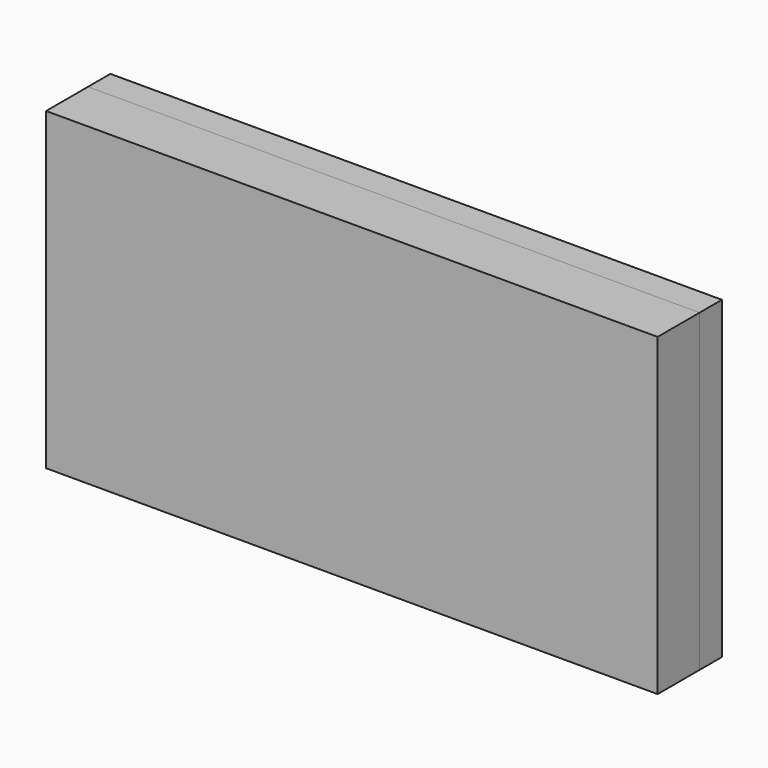
from build123d import *

# Parameters (mm, degrees)
SKETCH001_R                          = 2.5
EXTRUDE_DEPTH                        = 15
EXTRUDE_ONTO_SKETCH003_ROLL_ANGLE    = 90
SKETCH002_R                          = 4.5
EXTRUDE001_DEPTH                     = 30
EXTRUDE001_ONTO_SKETCH004_ROLL_ANGLE = 90
SKETCH005_R                          = 10
SKETCH007_AS_DRAWN_W                 = 175
SKETCH007_AS_DRAWN_H                 = 90
EXTRUDE002_DEPTH                     = 15
EXTRUDE002_ONTO_SKETCH007_ROLL_ANGLE = 90
SKETCH008_AS_DRAWN_W                 = 175
SKETCH008_AS_DRAWN_H                 = 90
EXTRUDE003_DEPTH                     = 8
EXTRUDE003_ONTO_SKETCH008_ROLL_ANGLE = 90


with BuildPart() as sweep_body:
    # Sweep: sweep along a path in Sketch
    with BuildLine(Plane.XZ) as sweep_path:
        ThreePointArc((0, 0), (77.031518, 16.556214), (140.457946, 63.300744))
    # Sketch001 → Sweep (sweep)
    with BuildSketch(Plane(origin=(0, 0, 0), x_dir=(0, -1, 0), z_dir=(-1, 0, 0))):
        Circle(SKETCH001_R)
    sweep(path=sweep_path.line)


with BuildPart() as sweep_body_1:
    # Sweep placement: moved
    add(sweep_body.part.moved(Location((0, 0, -6))))


with BuildPart() as extrude_body:
    # Sketch003 as drawn → Extrude (new)
    with BuildSketch(Plane.XY):
        Polygon((-1.083342, -7.49699), (13.908532, -7.003301), (12.838542, 7.958487), (-1, 7.502778), align=None)
        Polygon((41.700168, -2.988655), (66.671438, 4.25295), (61.542375, 18.348791), (38.492156, 11.664285), align=None)
        Polygon((92.299066, 15.729757), (114.329996, 29.537121), (105.53454, 41.68784), (85.198459, 28.942682), align=None)
        Polygon((125.963239, 58.925722), (136.461263, 48.211643), (146.763604, 59.114017), (135.473017, 68.989372), align=None)
    extrude(amount=-EXTRUDE_DEPTH)


with BuildPart() as extrude_body_1:
    # Extrude onto Sketch003 roll: moved
    add(extrude_body.part.rotate(Axis((0, 0, 0), (1, 0, 0)), EXTRUDE_ONTO_SKETCH003_ROLL_ANGLE))


with BuildPart() as extrude_body_2:
    # Extrude onto Sketch003 placement: moved
    add(extrude_body_1.part.moved(Location((0, -7, 0))))


with BuildPart() as internal:
    # Sweep001: sweep along a path in Sketch
    with BuildLine(Plane.XZ) as sweep001_path:
        ThreePointArc((0, 0), (77.031518, 16.556214), (140.457946, 63.300744))
    # Sketch002 → Sweep001 (sweep)
    with BuildSketch(Plane(origin=(0, 0, 0), x_dir=(0, -1, 0), z_dir=(-1, 0, 0))):
        Circle(SKETCH002_R)
    sweep(path=sweep001_path.line)

    # Cut: cut Extrude body
    add(extrude_body_2.part, mode=Mode.SUBTRACT)

    # Fusion: union Sweep body
    add(sweep_body_1.part)


with BuildPart() as extrude001:
    # Sketch004 as drawn → Extrude001 (new)
    with BuildSketch(Plane.XY):
        Polygon((-1.176321, -15.185914), (3.823573, -15.153257), (3.250451, 15.219992), (-1, 15.19223), align=None)
        Polygon((122.884349, 66.717206), (144.551406, 45.423983), (152.551406, 54.051694), (129.685215, 74.051694), align=None)
    extrude(amount=-EXTRUDE001_DEPTH)


with BuildPart() as extrude001_1:
    # Extrude001 onto Sketch004 roll: moved
    add(extrude001.part.rotate(Axis((0, 0, 0), (1, 0, 0)), EXTRUDE001_ONTO_SKETCH004_ROLL_ANGLE))


with BuildPart() as extrude001_2:
    # Extrude001 onto Sketch004 placement: moved
    add(extrude001_1.part.moved(Location((0, -13, 0))))


with BuildPart() as sweep002:
    # Sweep002: sweep along a path in Sketch
    with BuildLine(Plane.XZ) as sweep002_path:
        ThreePointArc((0, 0), (77.031518, 16.556214), (140.457946, 63.300744))
    # Sketch005 → Sweep002 (sweep)
    with BuildSketch(Plane(origin=(0, 0, 0), x_dir=(0, -1, 0), z_dir=(-1, 0, 0))):
        Circle(SKETCH005_R)
    sweep(path=sweep002_path.line)


with BuildPart() as cut001:
    # Cut001 base: copy of Sweep002
    add(sweep002.part)

    # Cut001: cut Extrude001
    add(extrude001_2.part, mode=Mode.SUBTRACT)


with BuildPart() as external:
    # Sweep003: sweep along a path in Sketch
    with BuildLine(Plane.XZ) as sweep003_path:
        ThreePointArc((0, 0), (77.031518, 16.556214), (140.457946, 63.300744))
    # Sketch001 → Sweep003 (sweep)
    with BuildSketch(Plane(origin=(0, 0, 0), x_dir=(0, -1, 0), z_dir=(-1, 0, 0))):
        Circle(SKETCH001_R)
    sweep(path=sweep003_path.line)


with BuildPart() as external_1:
    # Sweep003 placement: moved
    add(external.part.moved(Location((0, 0, -6))))

    # Fusion001: union Cut001
    add(cut001.part)


with BuildPart() as cut002:
    # Cut002 base: copy of Sweep002
    add(sweep002.part)

    # Cut002: cut Extrude001
    add(extrude001_2.part, mode=Mode.SUBTRACT)


with BuildPart() as sweep004:
    # Sweep004: sweep along a path in Sketch
    with BuildLine(Plane.XZ) as sweep004_path:
        ThreePointArc((0, 0), (77.031518, 16.556214), (140.457946, 63.300744))
    # Sketch001 → Sweep004 (sweep)
    with BuildSketch(Plane(origin=(0, 0, 0), x_dir=(0, -1, 0), z_dir=(-1, 0, 0))):
        Circle(SKETCH001_R)
    sweep(path=sweep004_path.line)


with BuildPart() as sweep004_1:
    # Sweep004 placement: moved
    add(sweep004.part.moved(Location((0, 0, -6))))


with BuildPart() as extrude002:
    # Sketch007 as drawn → Extrude002 (new)
    with BuildSketch(Plane.XY):
        with Locations((72.5, 27)):
            Rectangle(SKETCH007_AS_DRAWN_W, SKETCH007_AS_DRAWN_H)
    extrude(amount=-EXTRUDE002_DEPTH)


with BuildPart() as extrude002_1:
    # Extrude002 onto Sketch007 roll: moved
    add(extrude002.part.rotate(Axis((0, 0, 0), (1, 0, 0)), EXTRUDE002_ONTO_SKETCH007_ROLL_ANGLE))


with BuildPart() as extrude002_2:
    # Extrude002 onto Sketch007 placement: moved
    add(extrude002_1.part.moved(Location((0, -15, 0))))


with BuildPart() as extrude003:
    # Sketch008 as drawn → Extrude003 (new)
    with BuildSketch(Plane.XY):
        with Locations((72.5, 27)):
            Rectangle(SKETCH008_AS_DRAWN_W, SKETCH008_AS_DRAWN_H)
    extrude(amount=EXTRUDE003_DEPTH)


with BuildPart() as extrude003_1:
    # Extrude003 onto Sketch008 roll: moved
    add(extrude003.part.rotate(Axis((0, 0, 0), (1, 0, 0)), EXTRUDE003_ONTO_SKETCH008_ROLL_ANGLE))


with BuildPart() as extrude003_2:
    # Extrude003 onto Sketch008 placement: moved
    add(extrude003_1.part.moved(Location((0, 8, 0))))


solid = Compound([internal.part, external_1.part, cut002.part, sweep004_1.part, extrude002_2.part, extrude003_2.part])
